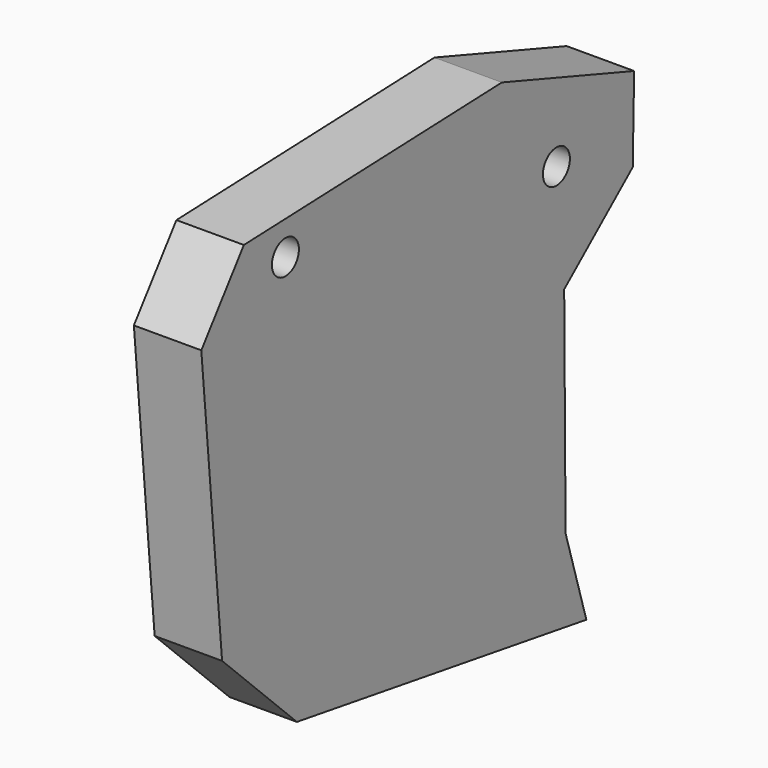
from build123d import *

# Parameters (mm, degrees)
F2_R     = 4.7625
F3_DEPTH = 19.05


with BuildPart() as f3:
    # F2 (on Right) → F3 (new body)
    with BuildSketch(Plane.YZ):
        Polygon((-1407.371283, 324.033141), (-1422.397137, 303.945631), (-1415.061831, 223.747462), (-1388.655186, 197.829768), (-1286.451459, 181.692332), (-1293.786645, 206.142992), (-1294.275641, 267.025113), (-1270.06948, 287.563682), (-1269.580483, 311.280817), (-1316.281199, 327.418238), align=None)
        with Locations((-1392.702985, 315.051372)):
            Circle(F2_R, mode=Mode.SUBTRACT)
        with Locations((-1297.021795, 298.678095)):
            Circle(F2_R, mode=Mode.SUBTRACT)
    extrude(amount=F3_DEPTH)


solid = f3.part
